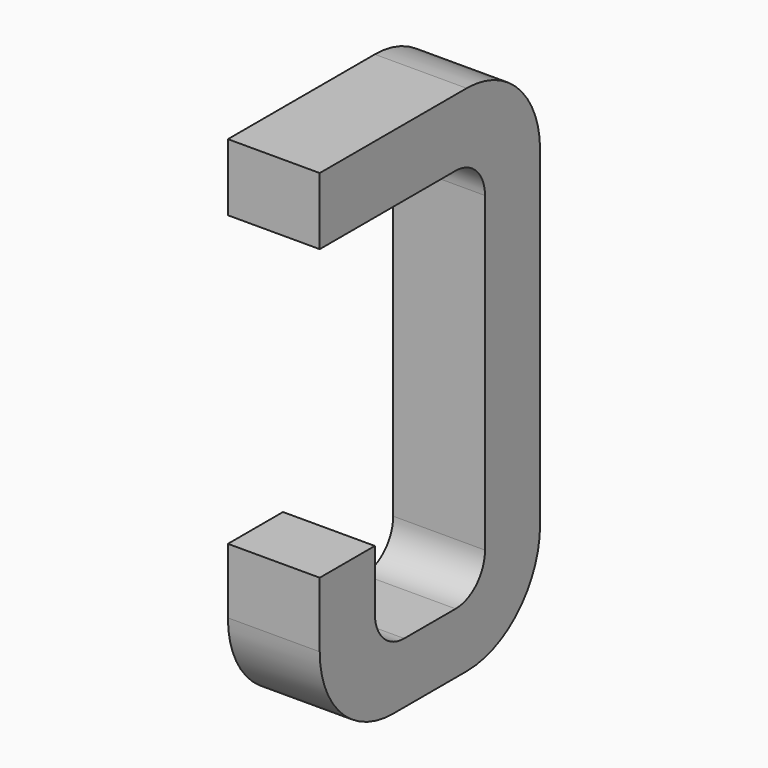
from build123d import *

# Parameters (mm, degrees)
BOX016_W     = 0.5
BOX016_H     = 1.5
BOX016_DEPTH = 2.795
FILLET041_R  = 0.5
FILLET045_R  = 0.5
FILLET037_R  = 0.5
BOX015_W     = 0.75
BOX015_H     = 2.1
BOX015_DEPTH = 1
FILLET032_R  = 0.2
FILLET054_R  = 0.2
FILLET040_R  = 0.2
FILLET031_R  = 0.2
BOX017_W     = 1
BOX017_H     = 1.575
BOX017_DEPTH = 3


with BuildPart() as part:
    # Box016 → Box016 (join)
    with BuildSketch(Plane(origin=(-0.25, 11.125, 0), x_dir=(1, 0, 0), z_dir=(0, 0, 1))):
        with Locations((0.25, 0.75)):
            Rectangle(BOX016_W, BOX016_H)
    extrude(amount=BOX016_DEPTH)

    # Fillet041
    fillet041_edges = [part.edges().sort_by_distance(p)[0] for p in [
        (0, 12.625, 0),
    ]]
    fillet(fillet041_edges, radius=FILLET041_R)

    # Fillet045
    fillet045_edges = [part.edges().sort_by_distance(p)[0] for p in [
        (0, 12.625, 2.795),
    ]]
    fillet(fillet045_edges, radius=FILLET045_R)

    # Fillet037
    fillet037_edges = [part.edges().sort_by_distance(p)[0] for p in [
        (0, 11.125, 0),
    ]]
    fillet(fillet037_edges, radius=FILLET037_R)

    # Box015 → Box015 (cut)
    with BuildSketch(Plane(origin=(-0.5, 11.5, 0.33), x_dir=(0, 1, 0), z_dir=(1, 0, 0))):
        with Locations((0.375, 1.05)):
            Rectangle(BOX015_W, BOX015_H)
    extrude(amount=BOX015_DEPTH, mode=Mode.SUBTRACT)

    # Fillet032
    fillet032_edges = [part.edges().sort_by_distance(p)[0] for p in [
        (0, 11.5, 0.33),
    ]]
    fillet(fillet032_edges, radius=FILLET032_R)

    # Fillet054
    fillet054_edges = [part.edges().sort_by_distance(p)[0] for p in [
        (0, 12.25, 0.33),
    ]]
    fillet(fillet054_edges, radius=FILLET054_R)

    # Fillet040
    fillet040_edges = [part.edges().sort_by_distance(p)[0] for p in [
        (0, 11.5, 2.43),
    ]]
    fillet(fillet040_edges, radius=FILLET040_R)

    # Fillet031
    fillet031_edges = [part.edges().sort_by_distance(p)[0] for p in [
        (0, 12.25, 2.43),
    ]]
    fillet(fillet031_edges, radius=FILLET031_R)

    # Box017 → Box017 (cut)
    with BuildSketch(Plane(origin=(-1, 11, 0.855), x_dir=(0, 1, 0), z_dir=(1, 0, 0))):
        with Locations((0.5, 0.7875)):
            Rectangle(BOX017_W, BOX017_H)
    extrude(amount=BOX017_DEPTH, mode=Mode.SUBTRACT)


with BuildPart() as part_1:
    # Body006 placement: moved
    add(part.part.moved(Location((-1.27, 0, 0))))


solid = part_1.part
